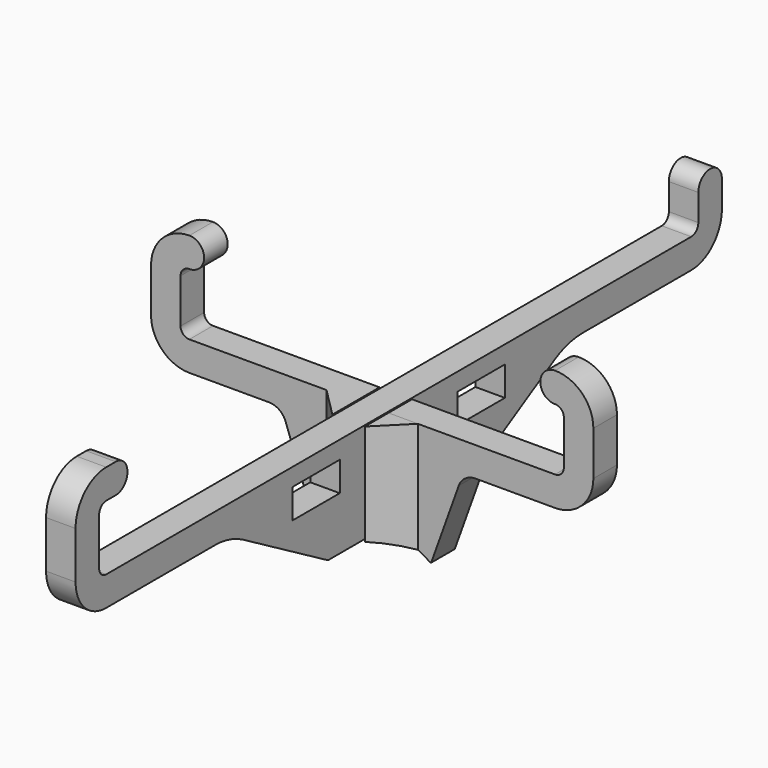
from build123d import *

# Parameters (mm, degrees)
SKETCH_W     = 10
SKETCH_H     = 5
PAD_DEPTH    = 2.5
PAD001_DEPTH = 2.5
PAD002_DEPTH = 20
POCKET_DEPTH = 10


with BuildPart() as vertical:
    # Sketch → Pad (new body, symmetric)
    with BuildSketch(Plane.YZ):
        with BuildLine():
            Line((68.5, 18.500004), (68.5, 22.999998))
            ThreePointArc((68.5, 22.999998), (66.000001, 25.5), (63.5, 23))
            Line((63.5, 18.5), (63.5, 23))
            ThreePointArc((62, 17), (63.06066, 17.43934), (63.5, 18.5))
            Line((-62, 17), (62, 17))
            ThreePointArc((-63.5, 18.5), (-63.06066, 17.43934), (-62, 17))
            Line((-63.5, 26.5), (-63.5, 18.5))
            ThreePointArc((-62, 28), (-63.06066, 27.56066), (-63.5, 26.5))
            Line((-62, 28), (-60, 28))
            ThreePointArc((-60, 28), (-57.500001, 30.5), (-60.000001, 33))
            Line((-60.000001, 33), (-62.000001, 33))
            ThreePointArc((-62.000001, 33), (-66.596195, 31.096194), (-68.5, 26.5))
            Line((-68.5, 18.499999), (-68.5, 26.5))
            ThreePointArc((-68.5, 18.499999), (-66.596194, 13.903806), (-62, 12))
            Line((-62, 12), (-38.999988, 12))
            ThreePointArc((-33, 10.392302), (-35.894165, 11.591109), (-38.999988, 12))
            Line((-15, 0), (-33, 10.392302))
            Line((-15, 0), (-2.75, 0))
            Line((-2.75, 0), (-2.75, 8.7))
            Line((-2.75, 8.7), (2.75, 8.7))
            Line((2.75, 8.7), (2.75, 0))
            Line((2.75, 0), (15, 0))
            Line((15, 0), (33, 10.392302))
            ThreePointArc((38.999988, 12), (35.894165, 11.591109), (33, 10.392302))
            Line((38.999988, 12), (62, 12))
            ThreePointArc((62, 12), (66.596195, 13.903807), (68.5, 18.500004))
        make_face()
        with Locations((-17.5, 11.5)):
            Rectangle(SKETCH_W, SKETCH_H, mode=Mode.SUBTRACT)
        with Locations((17.5, 11.5)):
            Rectangle(SKETCH_W, SKETCH_H, mode=Mode.SUBTRACT)
    extrude(amount=PAD_DEPTH, both=True)


with BuildPart() as fusion:
    # Sketch001 → Pad001 (new body, symmetric)
    with BuildSketch(Plane.XZ):
        with BuildLine():
            Line((17.5, 11.999988), (31.000007, 12))
            ThreePointArc((31.000007, 12), (35.596197, 13.903809), (37.5, 18.500001))
            Line((37.5, 25.999999), (37.5, 18.500001))
            ThreePointArc((37.5, 25.999999), (35.596194, 30.596194), (30.999999, 32.5))
            ThreePointArc((30.999999, 32.5), (28.499999, 30), (30.999999, 27.5))
            ThreePointArc((32.5, 25.999999), (32.06066, 27.06066), (30.999999, 27.5))
            Line((32.5, 18.500001), (32.5, 25.999999))
            ThreePointArc((30.999999, 17), (32.06066, 17.43934), (32.5, 18.500001))
            Line((2.75, 17), (30.999999, 17))
            Line((2.75, 8.3), (2.75, 17))
            Line((-2.75, 8.3), (2.75, 8.3))
            Line((-2.75, 16.999988), (-2.75, 8.3))
            Line((-31, 16.999988), (-2.75, 16.999988))
            ThreePointArc((-32.5, 18.499977), (-32.060656, 17.439324), (-31, 16.999988))
            Line((-32.5, 18.499977), (-32.5, 25.999999))
            ThreePointArc((-30.999999, 27.499988), (-32.060656, 27.060652), (-32.5, 25.999999))
            ThreePointArc((-30.999999, 27.499988), (-28.499999, 29.999988), (-30.999999, 32.499988))
            ThreePointArc((-30.999999, 32.499988), (-35.59619, 30.596186), (-37.5, 25.999999))
            Line((-37.5, 25.999999), (-37.5, 18.499977))
            ThreePointArc((-37.5, 18.499977), (-35.59619, 13.90379), (-30.999999, 11.999988))
            Line((-30.999999, 11.999988), (-17.5, 11.999988))
            ThreePointArc((-14.676752, 10.014518), (-15.774252, 11.453923), (-17.5, 11.999988))
            Line((-14.676752, 10.014518), (-10, -3))
            Line((-10, -3), (10, -3))
            Line((10, -3), (14.676756, 10.014519))
            ThreePointArc((17.5, 11.999988), (15.774255, 11.453922), (14.676756, 10.014519))
        make_face()
    extrude(amount=PAD001_DEPTH, both=True)

    # Sketch002 → Pad002 (new body)
    with BuildSketch(Plane(origin=(0, 0, 16.999988), x_dir=(-1, 0, 0), z_dir=(0, 0, 1))):
        Polygon((-7.75, 2.5), (-2.75, 7.5), (-2.75, 2.5), align=None)
        Polygon((2.75, 7.5), (2.75, 2.5), (7.75, 2.5), align=None)
    extrude(amount=-PAD002_DEPTH)

    # Sketch003 → Pocket (cut)
    with BuildSketch(Plane(origin=(0, 2.5, 0), x_dir=(1, 0, 0), z_dir=(0, 1, 0))):
        with BuildLine():
            ThreePointArc((-10, 3.138593), (0, 0), (10, 3.138593))
            Line((-10, 3.138593), (10, 3.138593))
        make_face()
    extrude(amount=-POCKET_DEPTH, mode=Mode.SUBTRACT)

    # Fusion: union Vertical
    add(vertical.part)


solid = fusion.part
